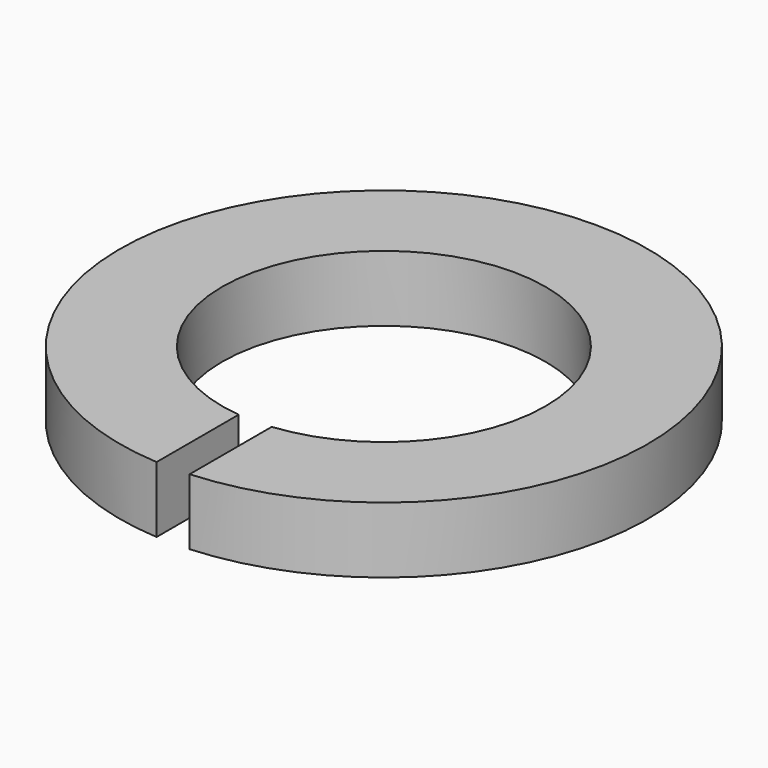
from build123d import *

# Parameters (mm, degrees)
PAD_DEPTH = 2.5


with BuildPart() as part:
    # Sketch → Pad (new body, symmetric)
    with BuildSketch(Plane.XY):
        with BuildLine():
            ThreePointArc((1.25, -12.186058), (0, 12.25), (-1.25, -12.186058))
            Line((-1.25, -19.960899), (-1.25, -12.186058))
            ThreePointArc((1.25, -19.960899), (0, 20), (-1.25, -19.960899))
            Line((1.25, -12.186058), (1.25, -19.960899))
        make_face()
    extrude(amount=PAD_DEPTH, both=True)


solid = part.part
